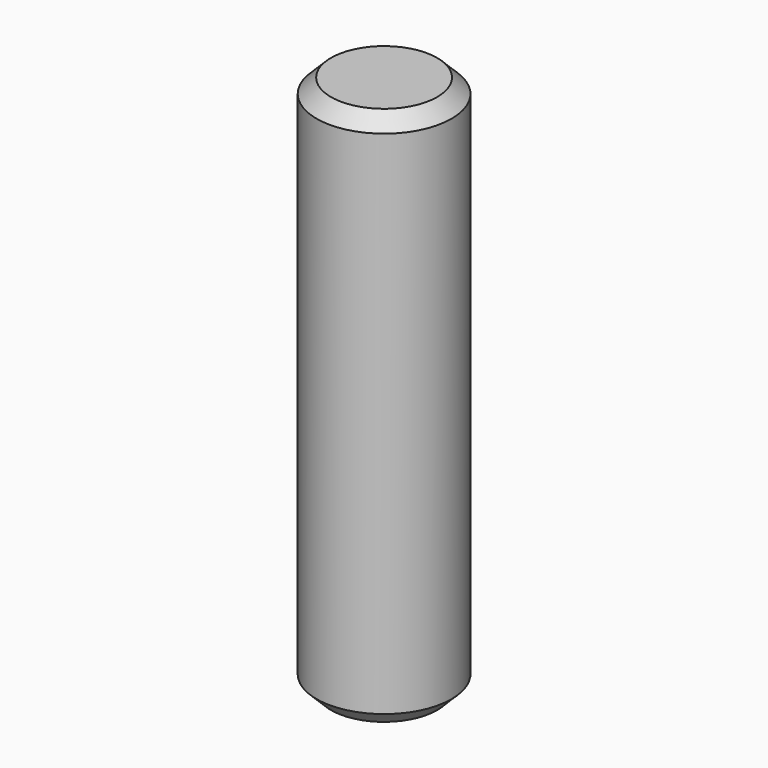
from build123d import *

# Parameters (mm, degrees)
F0_R     = 2.38125
F1_DEPTH = 9.525
F2_SIZE  = 0.508


with BuildPart() as f1:
    # F0 (on Top) → F1 (new body, symmetric)
    with BuildSketch(Plane.XY):
        Circle(F0_R)
    extrude(amount=F1_DEPTH, both=True)

    # F2
    f2_edges = [f1.edges().sort_by_distance(p)[0] for p in [
        (-2.38125, 0, 9.525),
        (-2.38125, 0, -9.525),
    ]]
    chamfer(f2_edges, length=F2_SIZE)


solid = f1.part
